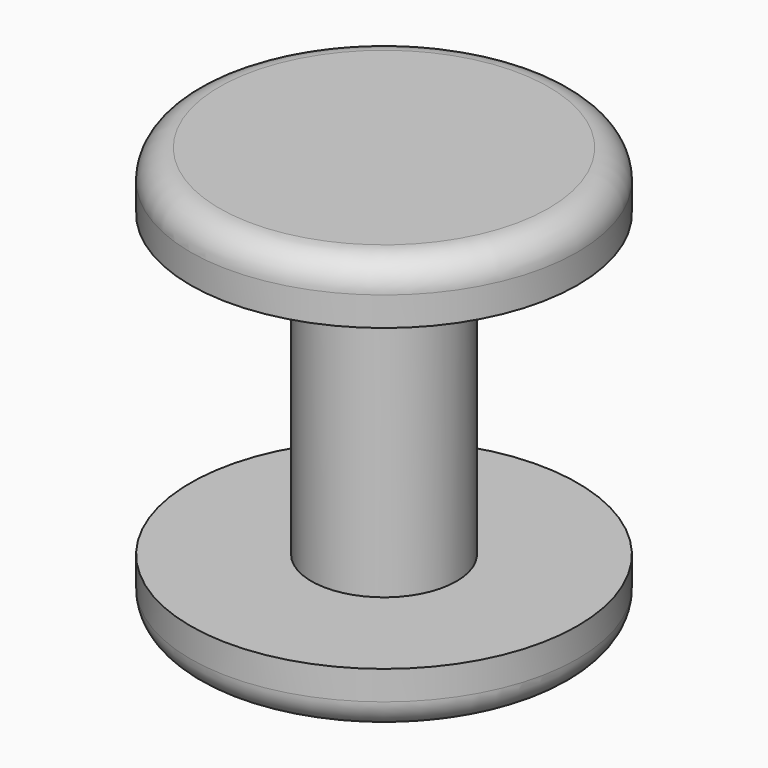
from build123d import *

# Parameters (mm, degrees)
F0_R      = 10
F1_DEPTH  = 3
F2_R      = 3.75
F3_DEPTH  = 15.5
F5_D      = 4.7
F5_DEPTH  = 6
F5_TIP    = 1.4120224547
F6_R      = 1.5
F7_R      = 10
F8_DEPTH  = 3
F9_R      = 1.9
F10_DEPTH = 5.5
F11_R     = 1.5


with BuildPart() as f1:
    # F0 (on Top) → F1 (new body)
    with BuildSketch(Plane.XY):
        Circle(F0_R)
    extrude(amount=F1_DEPTH)

    # F2 (on face) → F3 (join)
    with BuildSketch(Plane.XY.offset(3)):
        Circle(F2_R)
    extrude(amount=F3_DEPTH)

    # F5
    with Locations(Plane.XY.offset(18.5)):
        with Locations((0, 0)):
            Hole(F5_D / 2, depth=F5_DEPTH)
            with Locations((0, 0, -(F5_DEPTH + F5_TIP / 2))):  # 118° drill point
                Cone(0, F5_D / 2, F5_TIP, mode=Mode.SUBTRACT)

    # F6
    f6_edges = [f1.edges().sort_by_distance(p)[0] for p in [
        (-10, 0, 0),
    ]]
    fillet(f6_edges, radius=F6_R)


with BuildPart() as f8:
    # F7 (on face) → F8 (new body)
    with BuildSketch(Plane.XY.offset(18.5)):
        Circle(F7_R)
    extrude(amount=F8_DEPTH)

    # F9 (on face) → F10 (join)
    with BuildSketch(Plane(origin=(0, 0, 18.5), x_dir=(1, 0, 0), z_dir=(0, 0, -1))):
        Circle(F9_R)
    extrude(amount=F10_DEPTH)

    # F11
    f11_edges = [f8.edges().sort_by_distance(p)[0] for p in [
        (-10, 0, 21.5),
    ]]
    fillet(f11_edges, radius=F11_R)


solid = Compound([f1.part, f8.part])
